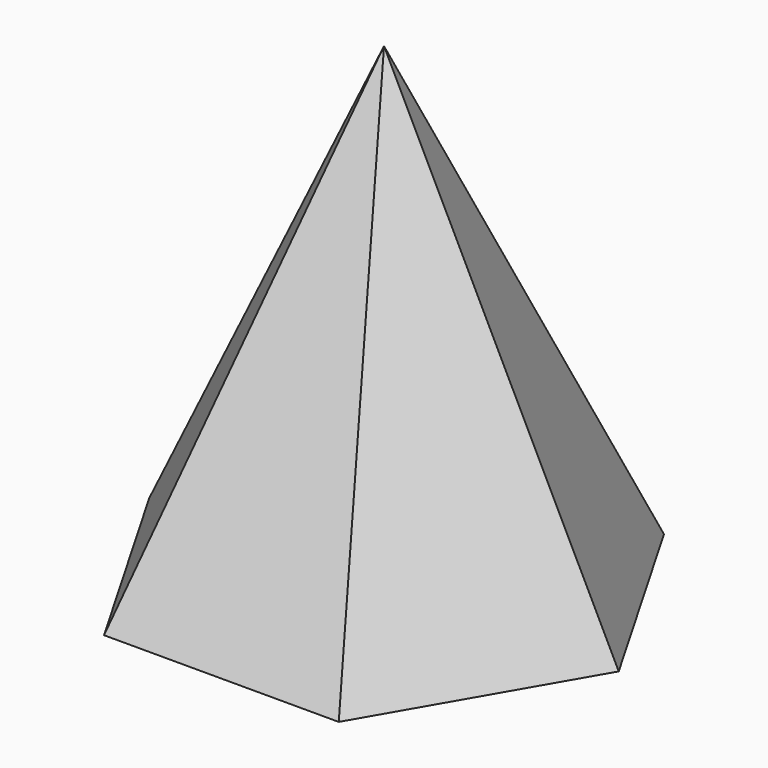
from build123d import *


with BuildPart() as f3:
    # F0 (on Top) → F3 section 0
    with BuildSketch(Plane.XY, mode=Mode.PRIVATE) as f3_s0:
        Polygon((37.126359, 64.304739), (-37.126359, 64.304739), (-74.252717, 0), (-37.126359, -64.304739), (37.126359, -64.304739), (74.252717, 0), align=None)
    loft([f3_s0.sketch, Vertex(0, 0, 150)])


solid = f3.part
